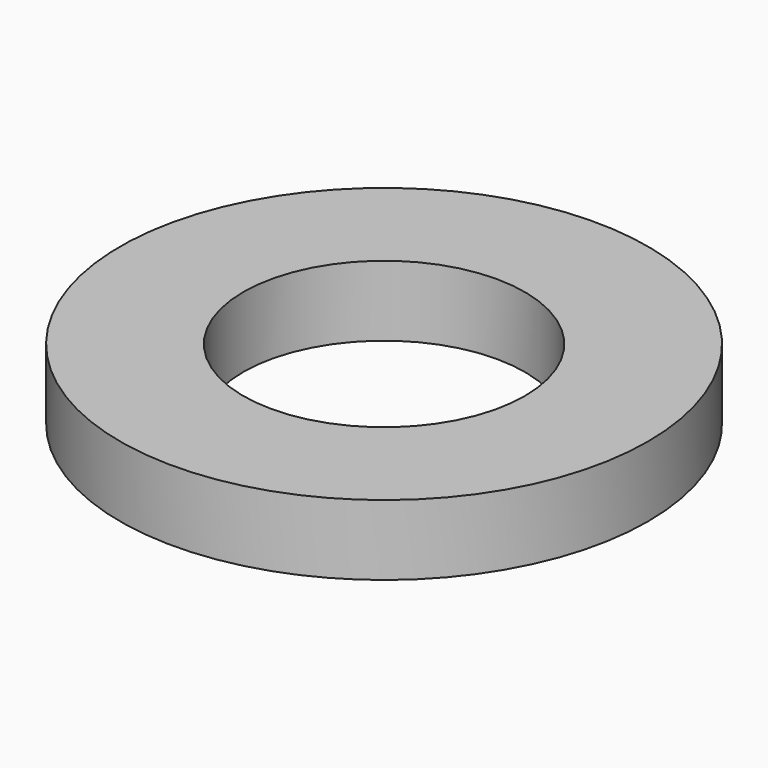
from build123d import *

# Parameters (mm, degrees)
SKETCH_R   = 6
SKETCH_R_2 = 3.2
PAD_DEPTH  = 1.6


with BuildPart() as part:
    # Sketch → Pad (new body)
    with BuildSketch(Plane.XY):
        Circle(SKETCH_R)
        Circle(SKETCH_R_2, mode=Mode.SUBTRACT)
    extrude(amount=PAD_DEPTH)


solid = part.part
